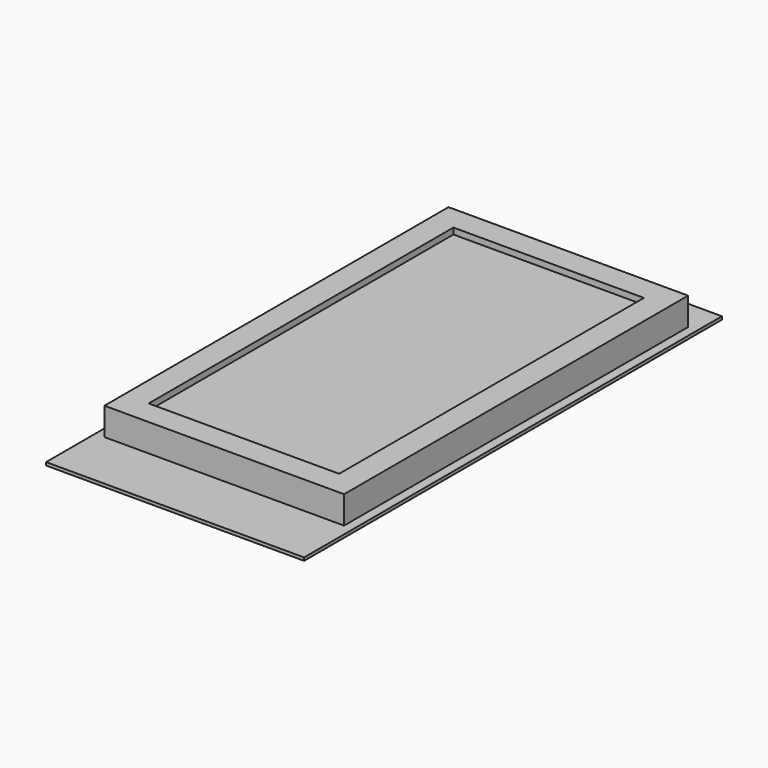
from build123d import *

# Parameters (mm, degrees)
F0_W     = 780
F0_H     = 1400
F0_W_2   = 620
F0_H_2   = 1240
F1_DEPTH = 100
F2_W     = 840
F2_H     = 1700
F2_W_2   = 780
F2_H_2   = 1400
F3_DEPTH = 10
F5_W     = 620
F5_H     = 1240
F6_DEPTH = 5


with BuildPart() as f1:
    # F0 (on Top) → F1 (new body)
    with BuildSketch(Plane.XY):
        with Locations((390, 700)):
            Rectangle(F0_W, F0_H)
        with Locations((390, 700)):
            Rectangle(F0_W_2, F0_H_2, mode=Mode.SUBTRACT)
    extrude(amount=F1_DEPTH)

    # F2 (on face) → F3 (join)
    with BuildSketch(Plane(origin=(0, 0, 0), x_dir=(1, 0, 0), z_dir=(0, 0, -1))):
        with Locations((390, -650)):
            Rectangle(F2_W, F2_H)
        with Locations((390, -700)):
            Rectangle(F2_W_2, F2_H_2, mode=Mode.SUBTRACT)
    extrude(amount=-F3_DEPTH)

    # F5 (on offset) → F6 (join)
    with BuildSketch(Plane.XY.offset(75)):
        with Locations((390, 700)):
            Rectangle(F5_W, F5_H)
    extrude(amount=F6_DEPTH)


solid = f1.part
